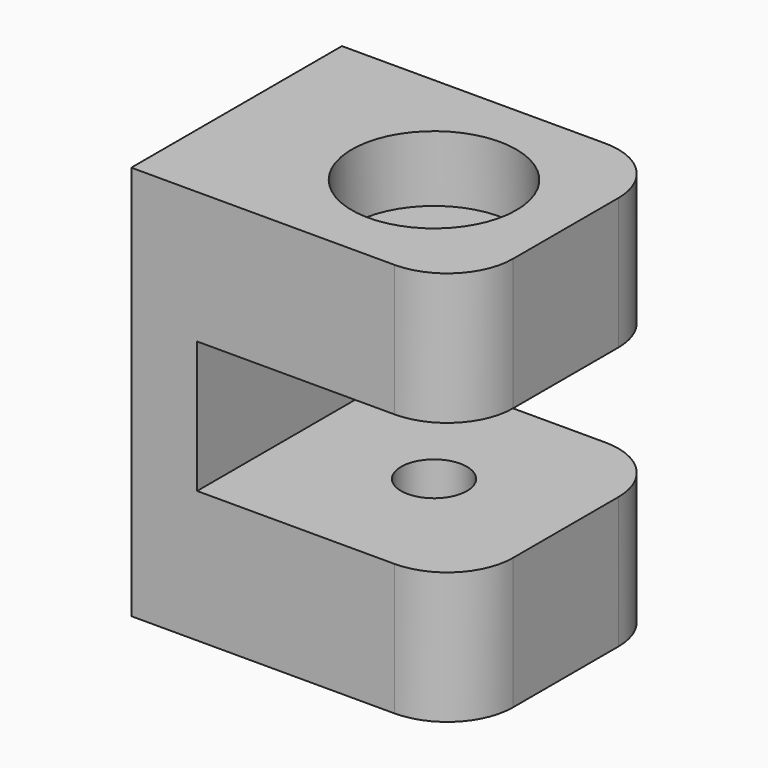
from build123d import *

# Parameters (mm, degrees)
F0_W     = 5
F0_H     = 4
F1_DEPTH = 6
F2_W     = 4
F2_H     = 2
F3_DEPTH = 25
F4_R     = 0.5
F5_DEPTH = 25
F6_R     = 1.25
F6_R_2   = 0.5
F7_DEPTH = 1
F8_R     = 1


with BuildPart() as f1:
    # F0 (on Top) → F1 (new body)
    with BuildSketch(Plane.XY):
        with Locations((2.5, 2)):
            Rectangle(F0_W, F0_H)
    extrude(amount=F1_DEPTH)

    # F2 (on face) → F3 (cut)
    with BuildSketch(Plane.XZ):
        with Locations((3, 3)):
            Rectangle(F2_W, F2_H)
    extrude(amount=-F3_DEPTH, mode=Mode.SUBTRACT)

    # F4 (on face) → F5 (cut)
    with BuildSketch(Plane.XY.offset(6)):
        with Locations((3, 2)):
            Circle(F4_R)
    extrude(amount=-F5_DEPTH, mode=Mode.SUBTRACT)

    # F6 (on face) → F7 (cut)
    with BuildSketch(Plane.XY.offset(6)):
        with Locations((3, 2)):
            Circle(F6_R)
        with Locations((3, 2)):
            Circle(F6_R_2, mode=Mode.SUBTRACT)
    extrude(amount=-F7_DEPTH, mode=Mode.SUBTRACT)

    # F8
    f8_edges = [f1.edges().sort_by_distance(p)[0] for p in [
        (5, 0, 1),
        (5, 0, 5),
        (5, 4, 5),
        (5, 4, 1),
    ]]
    fillet(f8_edges, radius=F8_R)


solid = f1.part
